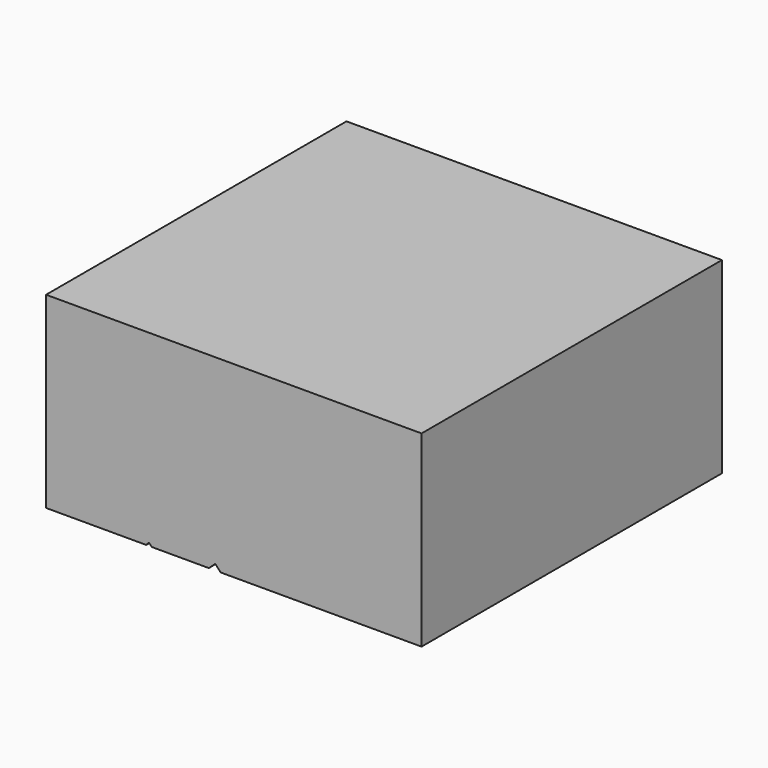
from build123d import *

# Parameters (mm, degrees)
F0_W     = 2000
F0_H     = 1000
F2_DEPTH = 2000
F3_DEPTH = 2000


with BuildPart() as f2:
    # F0 (on Front) → F2 (new body)
    with BuildSketch(Plane.XZ):
        Rectangle(F0_W, F0_H)
    extrude(amount=F2_DEPTH)

    # F1 (on face) → F3 (cut)
    with BuildSketch(Plane.XZ):
        Polygon((-452.153087, -484.449744), (-466.507196, -498.803854), (-469.377995, -553.349257), (-68.669821, -553.349257), (-68.669821, -501.674637), (-99.043064, -468.660265), (-134.928226, -501.674637), (-434.928194, -501.674637), align=None)
    extrude(amount=F3_DEPTH, mode=Mode.SUBTRACT)


solid = f2.part
